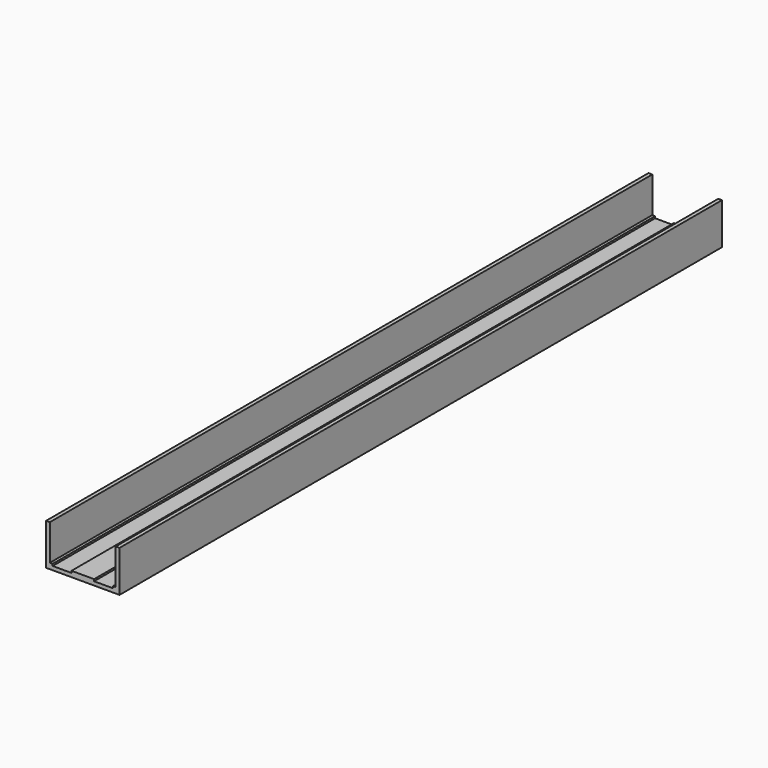
from build123d import *

# Parameters (mm, degrees)
F0_W     = 3.75
F0_H     = 2.5
F0_W_2   = 30
F1_DEPTH = 1000


with BuildPart() as f1:
    # F0 (on Front) → F1 (new body)
    with BuildSketch(Plane.XZ):
        Polygon((-47.5, 19.334835), (-47.5, -30.665165), (-42.5, -30.665165), (-42.5, -28.165165), (-42.5, -15.665165), (-42.5, 19.334835), align=None)
        Polygon((50, -35.665165), (50, -30.665165), (45, -30.665165), (41.25, -30.665165), (16.25, -30.665165), (-13.75, -30.665165), (-38.75, -30.665165), (-42.5, -30.665165), (-47.5, -30.665165), (-47.5, -35.665165), align=None)
        Polygon((50, 19.334835), (45, 19.334835), (45, -15.665165), (45, -28.165165), (45, -30.665165), (50, -30.665165), align=None)
        with Locations((43.125, -29.415165)):
            Rectangle(F0_W, F0_H)
        with Locations((1.25, -29.415165)):
            Rectangle(F0_W_2, F0_H)
        with Locations((-40.625, -29.415165)):
            Rectangle(F0_W, F0_H)
    extrude(amount=F1_DEPTH)


solid = f1.part
